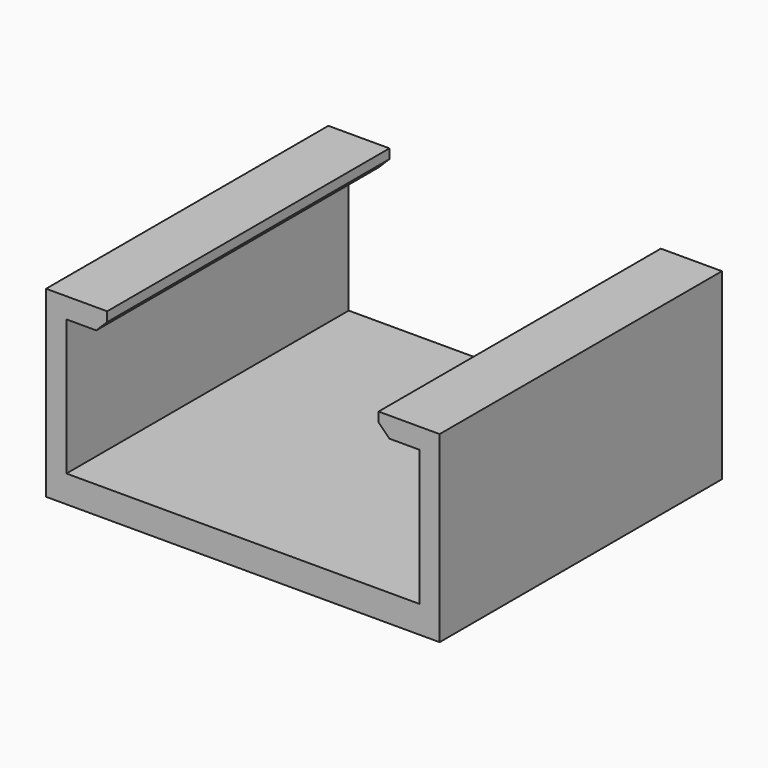
from build123d import *

# Parameters (mm, degrees)
F1_DEPTH = 26
F2_SIZE  = 0.8


with BuildPart() as f1:
    # F0 (on Front) → F1 (new body)
    with BuildSketch(Plane.XZ):
        Polygon((-14.5, 0), (0, 0), (0, 2), (-13, 2), (-13, 12), (-10, 12), (-10, 13.5), (-14.5, 13.5), align=None)
    extrude(amount=-F1_DEPTH)

    # F2
    f2_edges = [f1.edges().sort_by_distance(p)[0] for p in [
        (-10, 13, 12),
    ]]
    chamfer(f2_edges, length=F2_SIZE)

    # F3: F1 across plane


with BuildPart() as f1_1:
    add(f1.part)
    add(f1.part.mirror(Plane.YZ))


solid = f1_1.part
